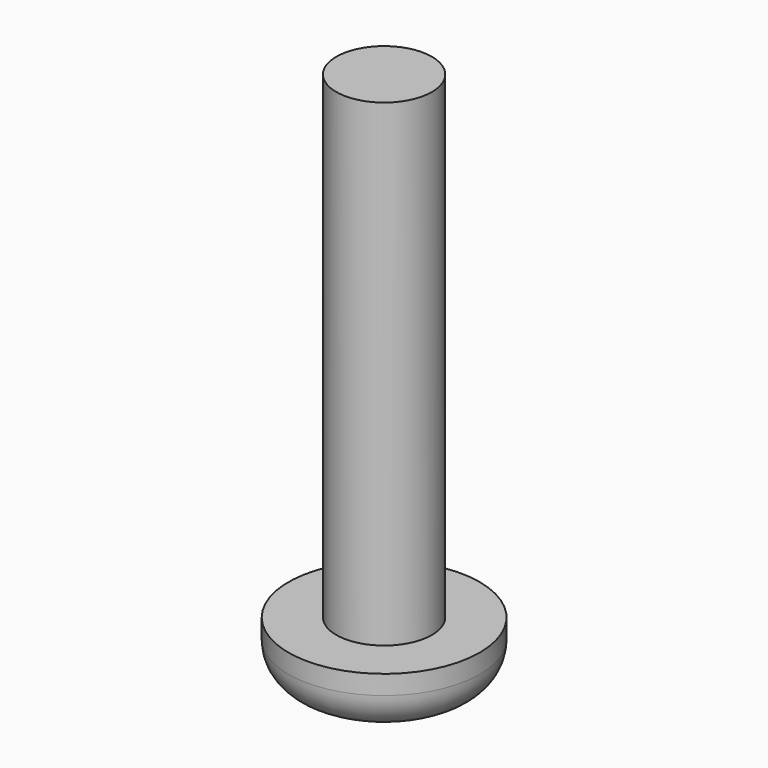
from build123d import *

# Parameters (mm, degrees)
SKETCH_R     = 5
PAD_DEPTH    = 3
SKETCH001_R  = 2.5
PAD001_DEPTH = 25
FILLET_R     = 2


with BuildPart() as part:
    # Sketch → Pad (new body)
    with BuildSketch(Plane.XY):
        Circle(SKETCH_R)
    extrude(amount=PAD_DEPTH)

    # Sketch001 → Pad001 (new body)
    with BuildSketch(Plane.XY.offset(3)):
        Circle(SKETCH001_R)
    extrude(amount=PAD001_DEPTH)

    # Fillet
    fillet_edges = [part.edges().sort_by_distance(p)[0] for p in [
        (-5, 0, 0),
    ]]
    fillet(fillet_edges, radius=FILLET_R)


solid = part.part
